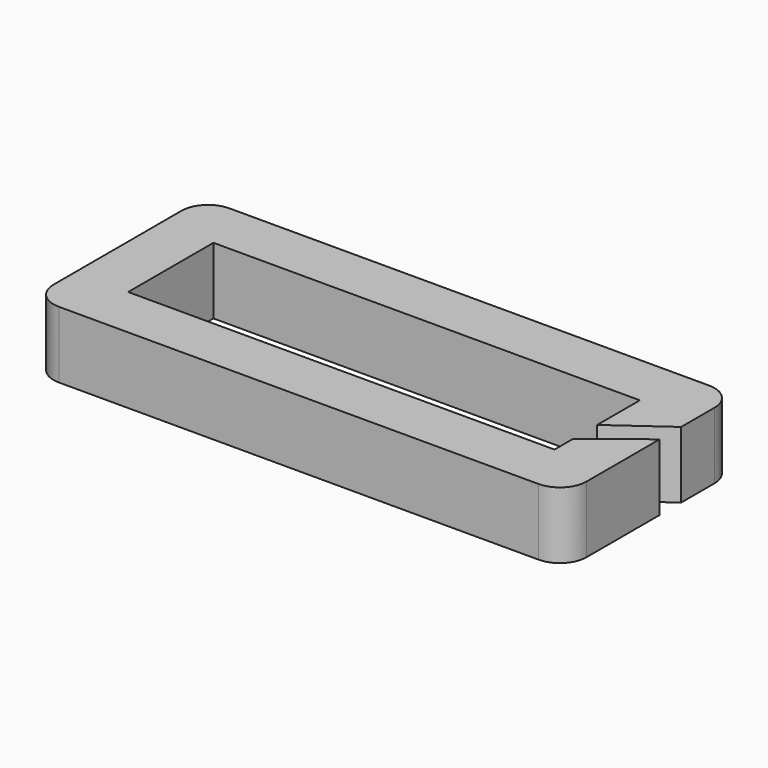
from build123d import *

# Parameters (mm, degrees)
F0_W     = 40
F0_H     = 16
F0_W_2   = 32
F0_H_2   = 8
F1_DEPTH = 2.5
F2_R     = 2
F4_DEPTH = 12.5


with BuildPart() as f1:
    # F0 (on Top) → F1 (new body, symmetric)
    with BuildSketch(Plane.XY):
        Rectangle(F0_W, F0_H)
        Rectangle(F0_W_2, F0_H_2, mode=Mode.SUBTRACT)
    extrude(amount=F1_DEPTH, both=True)

    # F2
    f2_edges = [f1.edges().sort_by_distance(p)[0] for p in [
        (-20, 8, 0),
        (-20, -8, 0),
        (20, -8, 0),
        (20, 8, 0),
    ]]
    fillet(f2_edges, radius=F2_R)

    # F3 (on face) → F4 (cut, symmetric)
    with BuildSketch(Plane.XY.offset(2.5)):
        Polygon((16, 0), (16, -2.256422), (20, 0.861545), (20, 2.871813), align=None)
    extrude(amount=F4_DEPTH, both=True, mode=Mode.SUBTRACT)


solid = f1.part
